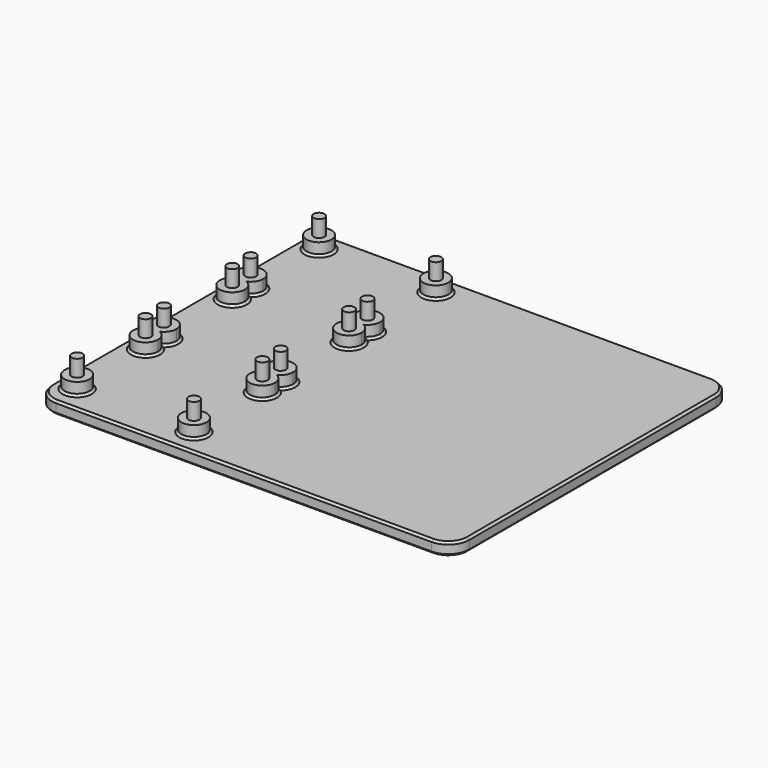
from build123d import *

# Parameters (mm, degrees)
F0_R     = 1.3
F1_DEPTH = 10
F0_R_2   = 3
F2_DEPTH = 6
F0_W     = 100
F0_H     = 84
F3_DEPTH = 3
F5_R     = 5
F6_SIZE  = 0.5
F7_SIZE  = 0.5


with BuildPart() as f1:
    # F0 (on Top) → F1 (new body)
    with BuildSketch(Plane.XY):
        with Locations((-92.4403309263, 55.2678049833)):
            Circle(F0_R)
    extrude(amount=F1_DEPTH)


with BuildPart() as f1b:
    # F0 (on Top) → F1, piece 2 (new body)
    with BuildSketch(Plane.XY):
        with Locations((-64.4403309263, 55.2678049833)):
            Circle(F0_R)
    extrude(amount=F1_DEPTH)


with BuildPart() as f1c:
    # F0 (on Top) → F1, piece 3 (new body)
    with BuildSketch(Plane.XY):
        with Locations((-64.4403309263, 34.7678049833)):
            Circle(F0_R)
    extrude(amount=F1_DEPTH)


with BuildPart() as f1d:
    # F0 (on Top) → F1, piece 4 (new body)
    with BuildSketch(Plane.XY):
        with Locations((-64.4403309263, 29.2678049833)):
            Circle(F0_R)
    extrude(amount=F1_DEPTH)


with BuildPart() as f1e:
    # F0 (on Top) → F1, piece 5 (new body)
    with BuildSketch(Plane.XY):
        with Locations((-64.4403309263, 8.7678049833)):
            Circle(F0_R)
    extrude(amount=F1_DEPTH)


with BuildPart() as f1f:
    # F0 (on Top) → F1, piece 6 (new body)
    with BuildSketch(Plane.XY):
        with Locations((-64.4403309263, 3.2678049833)):
            Circle(F0_R)
    extrude(amount=F1_DEPTH)


with BuildPart() as f1g:
    # F0 (on Top) → F1, piece 7 (new body)
    with BuildSketch(Plane.XY):
        with Locations((-64.4403309263, -17.2321950167)):
            Circle(F0_R)
    extrude(amount=F1_DEPTH)


with BuildPart() as f1h:
    # F0 (on Top) → F1, piece 8 (new body)
    with BuildSketch(Plane.XY):
        with Locations((-92.4403309263, -17.2321950167)):
            Circle(F0_R)
    extrude(amount=F1_DEPTH)


with BuildPart() as f1i:
    # F0 (on Top) → F1, piece 9 (new body)
    with BuildSketch(Plane.XY):
        with Locations((-92.4403309263, 3.2678049833)):
            Circle(F0_R)
    extrude(amount=F1_DEPTH)


with BuildPart() as f1j:
    # F0 (on Top) → F1, piece 10 (new body)
    with BuildSketch(Plane.XY):
        with Locations((-92.4403309263, 8.7678049833)):
            Circle(F0_R)
    extrude(amount=F1_DEPTH)


with BuildPart() as f1k:
    # F0 (on Top) → F1, piece 11 (new body)
    with BuildSketch(Plane.XY):
        with Locations((-92.4403309263, 29.2678049833)):
            Circle(F0_R)
    extrude(amount=F1_DEPTH)


with BuildPart() as f1l:
    # F0 (on Top) → F1, piece 12 (new body)
    with BuildSketch(Plane.XY):
        with Locations((-92.4403309263, 34.7678049833)):
            Circle(F0_R)
    extrude(amount=F1_DEPTH)


with BuildPart() as f2:
    # F0 (on Top) → F2 (new body)
    with BuildSketch(Plane.XY):
        with Locations((-92.4403309263, 55.2678049833)):
            Circle(F0_R_2)
        with Locations((-92.4403309263, 55.2678049833)):
            Circle(F0_R, mode=Mode.SUBTRACT)
    extrude(amount=F2_DEPTH)


with BuildPart() as f2b:
    # F0 (on Top) → F2, piece 2 (new body)
    with BuildSketch(Plane.XY):
        with Locations((-64.4403309263, 55.2678049833)):
            Circle(F0_R_2)
        with Locations((-64.4403309263, 55.2678049833)):
            Circle(F0_R, mode=Mode.SUBTRACT)
    extrude(amount=F2_DEPTH)


with BuildPart() as f2c:
    # F0 (on Top) → F2, piece 3 (new body)
    with BuildSketch(Plane.XY):
        with BuildLine():
            ThreePointArc((-63.2413730455, 32.0178049833), (-61.9306622587, 33.1241617194), (-61.4403309263, 34.7678049833))
            ThreePointArc((-61.4403309263, 34.7678049833), (-66.0839741902, 37.2774736509), (-65.6392888072, 32.0178049833))
            ThreePointArc((-65.6392888072, 32.0178049833), (-64.4403309263, 32.2678049833), (-63.2413730455, 32.0178049833))
        make_face()
        with Locations((-64.4403309263, 34.7678049833)):
            Circle(F0_R, mode=Mode.SUBTRACT)
        with BuildLine():
            ThreePointArc((-63.2413730455, 32.0178049833), (-64.4403309263, 31.7678049833), (-65.6392888072, 32.0178049833))
            ThreePointArc((-65.6392888072, 32.0178049833), (-66.0839741902, 26.7581363156), (-61.4403309263, 29.2678049833))
            ThreePointArc((-61.4403309263, 29.2678049833), (-61.9306622587, 30.9114482471), (-63.2413730455, 32.0178049833))
        make_face()
        with Locations((-64.4403309263, 29.2678049833)):
            Circle(F0_R, mode=Mode.SUBTRACT)
        with BuildLine():
            ThreePointArc((-63.2413730455, 32.0178049833), (-64.4403309263, 32.2678049833), (-65.6392888072, 32.0178049833))
            ThreePointArc((-65.6392888072, 32.0178049833), (-64.4403309263, 31.7678049833), (-63.2413730455, 32.0178049833))
        make_face()
    extrude(amount=F2_DEPTH)


with BuildPart() as f2d:
    # F0 (on Top) → F2, piece 4 (new body)
    with BuildSketch(Plane.XY):
        with BuildLine():
            ThreePointArc((-63.2413730455, 6.0178049833), (-61.9306622587, 7.1241617194), (-61.4403309263, 8.7678049833))
            ThreePointArc((-61.4403309263, 8.7678049833), (-66.0839741902, 11.2774736509), (-65.6392888072, 6.0178049833))
            ThreePointArc((-65.6392888072, 6.0178049833), (-64.4403309263, 6.2678049833), (-63.2413730455, 6.0178049833))
        make_face()
        with Locations((-64.4403309263, 8.7678049833)):
            Circle(F0_R, mode=Mode.SUBTRACT)
        with BuildLine():
            ThreePointArc((-63.2413730455, 6.0178049833), (-64.4403309263, 5.7678049833), (-65.6392888072, 6.0178049833))
            ThreePointArc((-65.6392888072, 6.0178049833), (-66.0839741902, 0.7581363156), (-61.4403309263, 3.2678049833))
            ThreePointArc((-61.4403309263, 3.2678049833), (-61.9306622587, 4.9114482471), (-63.2413730455, 6.0178049833))
        make_face()
        with Locations((-64.4403309263, 3.2678049833)):
            Circle(F0_R, mode=Mode.SUBTRACT)
        with BuildLine():
            ThreePointArc((-63.2413730455, 6.0178049833), (-64.4403309263, 6.2678049833), (-65.6392888072, 6.0178049833))
            ThreePointArc((-65.6392888072, 6.0178049833), (-64.4403309263, 5.7678049833), (-63.2413730455, 6.0178049833))
        make_face()
    extrude(amount=F2_DEPTH)


with BuildPart() as f2e:
    # F0 (on Top) → F2, piece 5 (new body)
    with BuildSketch(Plane.XY):
        with Locations((-64.4403309263, -17.2321950167)):
            Circle(F0_R_2)
        with Locations((-64.4403309263, -17.2321950167)):
            Circle(F0_R, mode=Mode.SUBTRACT)
    extrude(amount=F2_DEPTH)


with BuildPart() as f2f:
    # F0 (on Top) → F2, piece 6 (new body)
    with BuildSketch(Plane.XY):
        with Locations((-92.4403309263, -17.2321950167)):
            Circle(F0_R_2)
        with Locations((-92.4403309263, -17.2321950167)):
            Circle(F0_R, mode=Mode.SUBTRACT)
    extrude(amount=F2_DEPTH)


with BuildPart() as f2g:
    # F0 (on Top) → F2, piece 7 (new body)
    with BuildSketch(Plane.XY):
        with BuildLine():
            ThreePointArc((-91.2413730455, 6.0178049833), (-92.4403309263, 5.7678049833), (-93.6392888072, 6.0178049833))
            ThreePointArc((-93.6392888072, 6.0178049833), (-94.0839741902, 0.7581363156), (-89.4403309263, 3.2678049833))
            ThreePointArc((-89.4403309263, 3.2678049833), (-89.9306622587, 4.9114482471), (-91.2413730455, 6.0178049833))
        make_face()
        with Locations((-92.4403309263, 3.2678049833)):
            Circle(F0_R, mode=Mode.SUBTRACT)
        with BuildLine():
            ThreePointArc((-91.2413730455, 6.0178049833), (-89.9306622587, 7.1241617194), (-89.4403309263, 8.7678049833))
            ThreePointArc((-89.4403309263, 8.7678049833), (-94.0839741902, 11.2774736509), (-93.6392888072, 6.0178049833))
            ThreePointArc((-93.6392888072, 6.0178049833), (-92.4403309263, 6.2678049833), (-91.2413730455, 6.0178049833))
        make_face()
        with Locations((-92.4403309263, 8.7678049833)):
            Circle(F0_R, mode=Mode.SUBTRACT)
        with BuildLine():
            ThreePointArc((-91.2413730455, 6.0178049833), (-92.4403309263, 6.2678049833), (-93.6392888072, 6.0178049833))
            ThreePointArc((-93.6392888072, 6.0178049833), (-92.4403309263, 5.7678049833), (-91.2413730455, 6.0178049833))
        make_face()
    extrude(amount=F2_DEPTH)


with BuildPart() as f2h:
    # F0 (on Top) → F2, piece 8 (new body)
    with BuildSketch(Plane.XY):
        with BuildLine():
            ThreePointArc((-91.2413730455, 32.0178049833), (-92.4403309263, 31.7678049833), (-93.6392888072, 32.0178049833))
            ThreePointArc((-93.6392888072, 32.0178049833), (-94.0839741902, 26.7581363156), (-89.4403309263, 29.2678049833))
            ThreePointArc((-89.4403309263, 29.2678049833), (-89.9306622587, 30.9114482471), (-91.2413730455, 32.0178049833))
        make_face()
        with Locations((-92.4403309263, 29.2678049833)):
            Circle(F0_R, mode=Mode.SUBTRACT)
        with BuildLine():
            ThreePointArc((-91.2413730455, 32.0178049833), (-89.9306622587, 33.1241617194), (-89.4403309263, 34.7678049833))
            ThreePointArc((-89.4403309263, 34.7678049833), (-94.0839741902, 37.2774736509), (-93.6392888072, 32.0178049833))
            ThreePointArc((-93.6392888072, 32.0178049833), (-92.4403309263, 32.2678049833), (-91.2413730455, 32.0178049833))
        make_face()
        with Locations((-92.4403309263, 34.7678049833)):
            Circle(F0_R, mode=Mode.SUBTRACT)
        with BuildLine():
            ThreePointArc((-91.2413730455, 32.0178049833), (-92.4403309263, 32.2678049833), (-93.6392888072, 32.0178049833))
            ThreePointArc((-93.6392888072, 32.0178049833), (-92.4403309263, 31.7678049833), (-91.2413730455, 32.0178049833))
        make_face()
    extrude(amount=F2_DEPTH)


with BuildPart() as f3:
    # F0 (on Top) → F3 (new body)
    with BuildSketch(Plane.XY):
        with Locations((-47.4403309263, 18.4678049833)):
            Rectangle(F0_W, F0_H)
        with Locations((-92.4403309263, -17.2321950167)):
            Circle(F0_R_2, mode=Mode.SUBTRACT)
        with Locations((-64.4403309263, -17.2321950167)):
            Circle(F0_R_2, mode=Mode.SUBTRACT)
        with BuildLine():
            ThreePointArc((-93.6392888072, 6.0178049833), (-94.0839741902, 11.2774736509), (-89.4403309263, 8.7678049833))
            ThreePointArc((-89.4403309263, 8.7678049833), (-89.9306622587, 7.1241617194), (-91.2413730455, 6.0178049833))
            ThreePointArc((-91.2413730455, 6.0178049833), (-89.9306622587, 4.9114482471), (-89.4403309263, 3.2678049833))
            ThreePointArc((-89.4403309263, 3.2678049833), (-94.0839741902, 0.7581363156), (-93.6392888072, 6.0178049833))
        make_face(mode=Mode.SUBTRACT)
        with BuildLine():
            ThreePointArc((-65.6392888072, 6.0178049833), (-66.0839741902, 11.2774736509), (-61.4403309263, 8.7678049833))
            ThreePointArc((-61.4403309263, 8.7678049833), (-61.9306622587, 7.1241617194), (-63.2413730455, 6.0178049833))
            ThreePointArc((-63.2413730455, 6.0178049833), (-61.9306622587, 4.9114482471), (-61.4403309263, 3.2678049833))
            ThreePointArc((-61.4403309263, 3.2678049833), (-66.0839741902, 0.7581363156), (-65.6392888072, 6.0178049833))
        make_face(mode=Mode.SUBTRACT)
        with BuildLine():
            ThreePointArc((-93.6392888072, 32.0178049833), (-94.0839741902, 37.2774736509), (-89.4403309263, 34.7678049833))
            ThreePointArc((-89.4403309263, 34.7678049833), (-89.9306622587, 33.1241617194), (-91.2413730455, 32.0178049833))
            ThreePointArc((-91.2413730455, 32.0178049833), (-89.9306622587, 30.9114482471), (-89.4403309263, 29.2678049833))
            ThreePointArc((-89.4403309263, 29.2678049833), (-94.0839741902, 26.7581363156), (-93.6392888072, 32.0178049833))
        make_face(mode=Mode.SUBTRACT)
        with BuildLine():
            ThreePointArc((-65.6392888072, 32.0178049833), (-66.0839741902, 37.2774736509), (-61.4403309263, 34.7678049833))
            ThreePointArc((-61.4403309263, 34.7678049833), (-61.9306622587, 33.1241617194), (-63.2413730455, 32.0178049833))
            ThreePointArc((-63.2413730455, 32.0178049833), (-61.9306622587, 30.9114482471), (-61.4403309263, 29.2678049833))
            ThreePointArc((-61.4403309263, 29.2678049833), (-66.0839741902, 26.7581363156), (-65.6392888072, 32.0178049833))
        make_face(mode=Mode.SUBTRACT)
        with Locations((-92.4403309263, 55.2678049833)):
            Circle(F0_R_2, mode=Mode.SUBTRACT)
        with Locations((-64.4403309263, 55.2678049833)):
            Circle(F0_R_2, mode=Mode.SUBTRACT)
    extrude(amount=F3_DEPTH)

    # F4: union F2, F2h, F2b, F2c, F2g, F2d, F2f, F2e, F1, F1l, F1b, F1c, F1k, F1d, F1j, F1e, F1i, F1f, F1h, F1g
    add(f2.part)
    add(f2h.part)
    add(f2b.part)
    add(f2c.part)
    add(f2g.part)
    add(f2d.part)
    add(f2f.part)
    add(f2e.part)
    add(f1.part)
    add(f1l.part)
    add(f1b.part)
    add(f1c.part)
    add(f1k.part)
    add(f1d.part)
    add(f1j.part)
    add(f1e.part)
    add(f1i.part)
    add(f1f.part)
    add(f1h.part)
    add(f1g.part)

    # F5
    f5_edges = [f3.edges().sort_by_distance(p)[0] for p in [
        (-97.440331, -23.532195, 1.5),
        (2.559669, -23.532195, 1.5),
        (2.559669, 60.467805, 1.5),
        (-97.440331, 60.467805, 1.5),
    ]]
    fillet(f5_edges, radius=F5_R)

    # F6
    f6_edges = [f3.edges().sort_by_distance(p)[0] for p in [
        (-47.440331, 60.467805, 0),
        (1.095203, 59.003339, 0),
        (-95.975865, 59.003339, 0),
        (2.559669, 18.467805, 0),
        (-97.440331, 18.467805, 0),
        (1.095203, -22.067729, 0),
        (-95.975865, -22.067729, 0),
        (-47.440331, -23.532195, 0),
    ]]
    chamfer(f6_edges, length=F6_SIZE)

    # F7
    f7_edges = [f3.edges().sort_by_distance(p)[0] for p in [
        (-47.440331, 60.467805, 3),
        (1.095203, 59.003339, 3),
        (-95.975865, 59.003339, 3),
        (2.559669, 18.467805, 3),
        (-97.440331, 18.467805, 3),
        (1.095203, -22.067729, 3),
        (-95.975865, -22.067729, 3),
        (-47.440331, -23.532195, 3),
        (-95.440331, -17.232195, 3),
        (-67.440331, -17.232195, 3),
        (-92.440331, 0.267805, 3),
        (-92.440331, 11.767805, 3),
        (-64.440331, 0.267805, 3),
        (-64.440331, 11.767805, 3),
        (-92.440331, 37.767805, 3),
        (-92.440331, 26.267805, 3),
        (-64.440331, 26.267805, 3),
        (-64.440331, 37.767805, 3),
        (-95.440331, 55.267805, 3),
        (-67.440331, 55.267805, 3),
    ]]
    chamfer(f7_edges, length=F7_SIZE)


solid = f3.part
